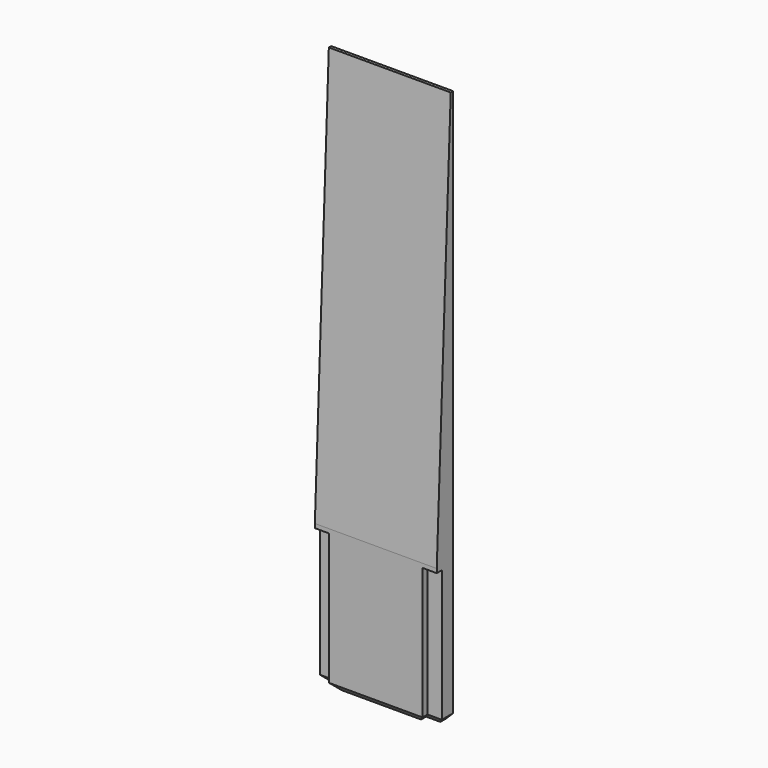
from build123d import *

# Parameters (mm, degrees)
PAD003_DEPTH    = 1.44
POCKET004_DEPTH = 9.75
POCKET005_DEPTH = 8.570714
CHAMFER002_SIZE = 0.5


with BuildPart() as part:
    # Sketch010 → Pad003 (new body)
    with BuildSketch(Plane.XZ):
        Polygon((-4.284857, 0), (4.284857, 0), (4.284857, 9.75), (4.284857, 39), (-4.284857, 39), (-4.284857, 9.75), align=None)
    extrude(amount=PAD003_DEPTH)

    # Sketch011 (on Face1 of Pad003) → Pocket004 (cut)
    with BuildSketch(Plane(origin=(0, 0, 0), x_dir=(1, 0, 0), z_dir=(0, 0, -1))):
        Polygon((-3.284857, 1.44), (-3.284857, 1), (-8.284857, 1), (-8.284857, 4.941038), align=None)
        Polygon((8.284857, 4.941038), (3.284857, 1.44), (3.284857, 1), (8.284857, 1), align=None)
    extrude(amount=-POCKET004_DEPTH, mode=Mode.SUBTRACT)

    # Sketch012 (on Face9 of Pocket004) → Pocket005 (cut, through all)
    with BuildSketch(Plane(origin=(-4.284857, 0, 0), x_dir=(0, 0, -1), z_dir=(-1, 0, 0))):
        Polygon((-39.051991, 0.21), (-10.038814, 1.44), (-39.051991, 14.04), align=None)
    extrude(amount=-POCKET005_DEPTH, mode=Mode.SUBTRACT)

    # Chamfer002
    chamfer002_edges = [part.edges().sort_by_distance(p)[0] for p in [
        (-3.784857, -1, 0),
        (-3.284857, -1.22, 0),
        (0, -1.44, 0),
        (3.284857, -1.22, 0),
        (3.784857, -1, 0),
        (-4.284857, -0.5, 0),
        (4.284857, -0.5, 0),
    ]]
    chamfer(chamfer002_edges, length=CHAMFER002_SIZE)


with BuildPart() as part_1:
    # Body001 placement: moved
    add(part.part.moved(Location((0, 25, 0))))


solid = part_1.part
